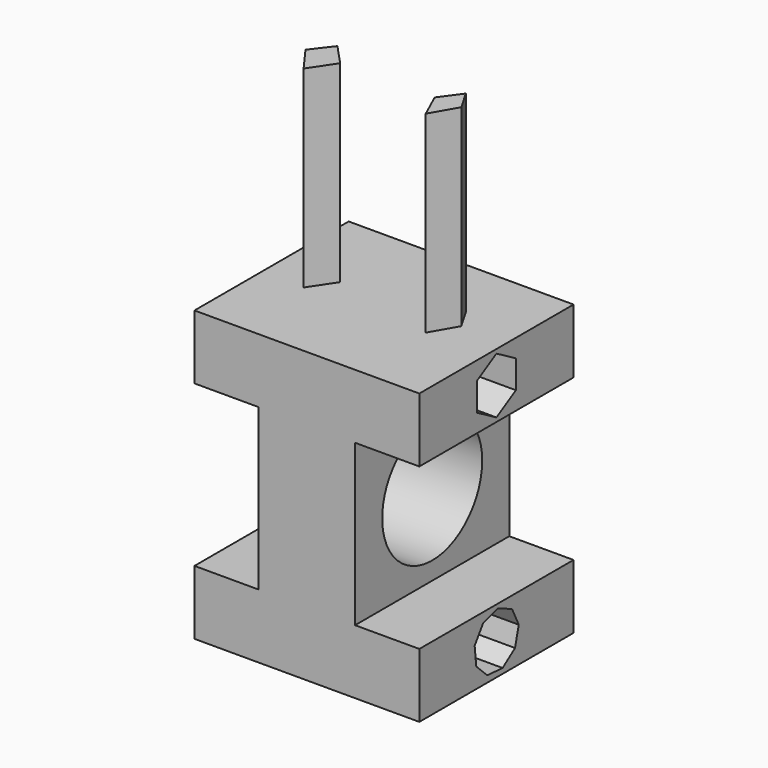
from build123d import *

# Parameters (mm, degrees)
F1_DEPTH  = 76.2
F2_R      = 24.709067
F3_DEPTH  = 63.501
F5_DEPTH  = 88.901
F7_DEPTH  = 88.901
F10_DEPTH = 76.2


with BuildPart() as f1:
    # F0 (on Front) → F1 (new body)
    with BuildSketch(Plane.XZ):
        Polygon((-46.748187, -27.325264), (-46.748187, -52.725264), (42.151813, -52.725264), (42.151813, -27.325264), (16.751813, -27.325264), (16.751813, 36.174736), (42.151813, 36.174736), (42.151813, 61.574736), (-46.748187, 61.574736), (-46.748187, 36.174736), (-21.348187, 36.174736), (-21.348187, -27.325264), align=None)
    extrude(amount=F1_DEPTH)

    # F2 (on face) → F3 (cut, through all)
    with BuildSketch(Plane.YZ.offset(16.751813)):
        with Locations((-38.1, 4.424736)):
            Circle(F2_R)
    extrude(amount=-F3_DEPTH, mode=Mode.SUBTRACT)

    # F4 (on face) → F5 (cut, through all)
    with BuildSketch(Plane.YZ.offset(42.151813)):
        Polygon((-28.475514, 43.318036), (-28.475514, 54.431435), (-38.1, 59.988135), (-47.724486, 54.431435), (-47.724486, 43.318036), (-38.1, 37.761336), align=None)
    extrude(amount=-F5_DEPTH, mode=Mode.SUBTRACT)

    # F6 (on face) → F7 (cut, through all)
    with BuildSketch(Plane.YZ.offset(42.151813)):
        Polygon((-44.617329, -31.057962), (-48.856635, -37.34517), (-48.062791, -44.886425), (-42.607247, -50.153088), (-35.042712, -50.68083), (-28.908716, -46.222715), (-27.075424, -38.864743), (-30.400653, -32.049793), (-37.328493, -28.966654), align=None)
    extrude(amount=-F7_DEPTH, mode=Mode.SUBTRACT)

    # F9 (on face) → F10 (join)
    with BuildSketch(Plane.XY.offset(61.574736)):
        Polygon((-23.453956, -33.323833), (-31.261161, -24.916075), (-37.451491, -32.963499), (-30.023094, -43.177541), align=None)
        Polygon((24.142282, -32.963499), (19.499537, -24.916075), (13.618723, -32.963499), (18.261472, -43.177541), align=None)
    extrude(amount=F10_DEPTH)


solid = f1.part
